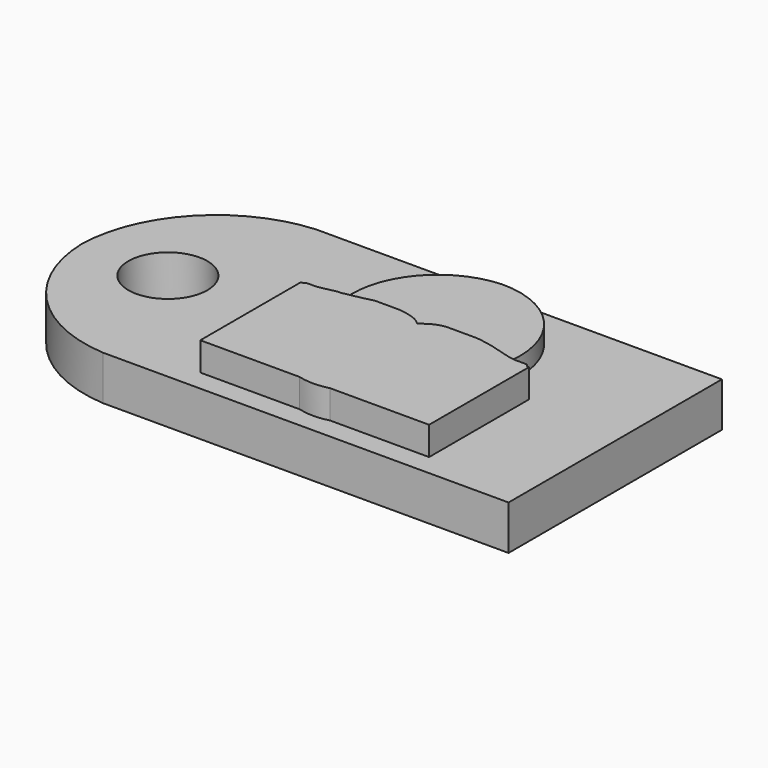
from build123d import *

# Parameters (mm, degrees)
F0_W     = 38.1
F0_H     = 19.05
F1_DEPTH = 3.175
F2_R     = 2.81996
F3_DEPTH = 3.176
F5_DEPTH = 1.27
F6_DEPTH = 2.032


with BuildPart() as f1:
    # F0 (on Top) → F1 (new body)
    with BuildSketch(Plane.XY):
        with Locations((-19.05, 9.525)):
            Rectangle(F0_W, F0_H)
    extrude(amount=F1_DEPTH)

    # F2 (on face) → F3 (cut, through all)
    with BuildSketch(Plane.XY.offset(3.175)):
        with BuildLine():
            ThreePointArc((-38.1, 9.525), (-35.381374, 16.053134), (-28.9762, 19.05))
            Line((-28.9762, 19.05), (-38.1, 19.05))
            Line((-38.1, 19.05), (-38.1, 9.525))
        make_face()
        with BuildLine():
            ThreePointArc((-28.9762, 0), (-35.381374, 2.996866), (-38.1, 9.525))
            Line((-38.1, 9.525), (-38.1, 0))
            Line((-38.1, 0), (-28.9762, 0))
        make_face()
        with Locations((-31.952918, 9.525)):
            Circle(F2_R)
    extrude(amount=-F3_DEPTH, mode=Mode.SUBTRACT)

    # F4 (on face) → F5 (join)
    with BuildSketch(Plane.XY.offset(3.175)):
        with BuildLine():
            ThreePointArc((-15.194452, 18.448619), (-19.817669, 16.003864), (-20.874732, 10.881991))
            Line((-20.874732, 10.881991), (-20.671532, 10.881991))
            Line((-20.671532, 10.881991), (-20.320076, 10.963324))
            Line((-20.320076, 10.963324), (-19.771464, 11.066189))
            Line((-19.771464, 11.066189), (-19.291429, 11.160482))
            Line((-19.291429, 11.160482), (-18.911961, 11.260434))
            Line((-18.911961, 11.260434), (-18.586872, 11.327949))
            Line((-18.586872, 11.327949), (-18.261783, 11.327949))
            Line((-18.261783, 11.327949), (-17.762255, 11.327949))
            Line((-17.762255, 11.327949), (-17.223081, 11.327949))
            Line((-17.223081, 11.327949), (-16.794914, 11.327949))
            Line((-16.794914, 11.327949), (-16.431164, 11.260434))
            Line((-16.431164, 11.260434), (-16.233785, 11.225344))
            Line((-16.233785, 11.225344), (-15.955806, 11.155849))
            Line((-15.955806, 11.155849), (-15.720593, 11.086354))
            Line((-15.720593, 11.086354), (-15.498744, 10.979439))
            Line((-15.498744, 10.979439), (-15.327681, 10.872524))
            Line((-15.327681, 10.872524), (-15.15326, 10.739213))
            Line((-15.15326, 10.739213), (-15.022739, 10.64253))
            Line((-15.022739, 10.64253), (-14.872882, 10.758549))
            Line((-14.872882, 10.758549), (-14.649567, 10.92315))
            Line((-14.649567, 10.92315), (-14.321024, 11.11269))
            Line((-14.321024, 11.11269), (-14.07626, 11.221474))
            Line((-14.07626, 11.221474), (-13.782543, 11.308501))
            Line((-13.782543, 11.308501), (-13.477948, 11.352015))
            Line((-13.477948, 11.352015), (-13.238624, 11.352015))
            Line((-13.238624, 11.352015), (-12.885077, 11.352015))
            Line((-12.885077, 11.352015), (-12.553286, 11.352015))
            Line((-12.553286, 11.352015), (-12.145346, 11.352015))
            Line((-12.145346, 11.352015), (-11.748285, 11.352015))
            Line((-11.748285, 11.352015), (-11.356664, 11.352015))
            Line((-11.356664, 11.352015), (-10.986798, 11.308501))
            Line((-10.986798, 11.308501), (-10.790988, 11.264987))
            Line((-10.790988, 11.264987), (-10.470076, 11.216035))
            Line((-10.470076, 11.216035), (-10.132845, 11.139886))
            Line((-10.132845, 11.139886), (-9.730345, 11.031102))
            Line((-9.730345, 11.031102), (-9.210265, 10.879805))
            ThreePointArc((-9.210265, 10.879805), (-10.357813, 16.122579), (-15.194452, 18.448619))
        make_face()
    extrude(amount=F5_DEPTH)

    # F4 (on face) → F6 (join)
    with BuildSketch(Plane.XY.offset(3.175)):
        with BuildLine():
            Line((-23.068097, 10.490683), (-23.225745, 10.490683))
            Line((-23.225745, 10.490683), (-23.225745, 1.513947))
            Line((-23.225745, 1.513947), (-16.128955, 1.513947))
            ThreePointArc((-16.128955, 1.513947), (-15.046753, 1.367138), (-13.964551, 1.513947))
            Line((-13.964551, 1.513947), (-6.886078, 1.513947))
            Line((-6.886078, 1.513947), (-6.886078, 10.435192))
            Line((-6.886078, 10.435192), (-7.009125, 10.435192))
            Line((-7.009125, 10.435192), (-7.190363, 10.616429))
            Line((-7.190363, 10.616429), (-7.648225, 10.616429))
            Line((-7.648225, 10.616429), (-8.058394, 10.616429))
            Line((-8.058394, 10.616429), (-8.506718, 10.69274))
            Line((-8.506718, 10.69274), (-8.850115, 10.778589))
            Line((-8.850115, 10.778589), (-9.210265, 10.879805))
            Line((-9.210265, 10.879805), (-9.730345, 11.031102))
            Line((-9.730345, 11.031102), (-10.132845, 11.139886))
            Line((-10.132845, 11.139886), (-10.470076, 11.216035))
            Line((-10.470076, 11.216035), (-10.790988, 11.264987))
            Line((-10.790988, 11.264987), (-10.986798, 11.308501))
            Line((-10.986798, 11.308501), (-11.356664, 11.352015))
            Line((-11.356664, 11.352015), (-11.748285, 11.352015))
            Line((-11.748285, 11.352015), (-12.145346, 11.352015))
            Line((-12.145346, 11.352015), (-12.553286, 11.352015))
            Line((-12.553286, 11.352015), (-12.885077, 11.352015))
            Line((-12.885077, 11.352015), (-13.238624, 11.352015))
            Line((-13.238624, 11.352015), (-13.477948, 11.352015))
            Line((-13.477948, 11.352015), (-13.782543, 11.308501))
            Line((-13.782543, 11.308501), (-14.07626, 11.221474))
            Line((-14.07626, 11.221474), (-14.321024, 11.11269))
            Line((-14.321024, 11.11269), (-14.649567, 10.92315))
            Line((-14.649567, 10.92315), (-14.872882, 10.758549))
            Line((-14.872882, 10.758549), (-15.022739, 10.64253))
            Line((-15.022739, 10.64253), (-15.15326, 10.739213))
            Line((-15.15326, 10.739213), (-15.327681, 10.872524))
            Line((-15.327681, 10.872524), (-15.498744, 10.979439))
            Line((-15.498744, 10.979439), (-15.720593, 11.086354))
            Line((-15.720593, 11.086354), (-15.955806, 11.155849))
            Line((-15.955806, 11.155849), (-16.233785, 11.225344))
            Line((-16.233785, 11.225344), (-16.431164, 11.260434))
            Line((-16.431164, 11.260434), (-16.794914, 11.327949))
            Line((-16.794914, 11.327949), (-17.223081, 11.327949))
            Line((-17.223081, 11.327949), (-17.762255, 11.327949))
            Line((-17.762255, 11.327949), (-18.261783, 11.327949))
            Line((-18.261783, 11.327949), (-18.586872, 11.327949))
            Line((-18.586872, 11.327949), (-18.911961, 11.260434))
            Line((-18.911961, 11.260434), (-19.291429, 11.160482))
            Line((-19.291429, 11.160482), (-19.771464, 11.066189))
            Line((-19.771464, 11.066189), (-20.320076, 10.963324))
            Line((-20.320076, 10.963324), (-20.671532, 10.881991))
            Line((-20.671532, 10.881991), (-20.874732, 10.881991))
            Line((-20.874732, 10.881991), (-21.348417, 10.795149))
            Line((-21.348417, 10.795149), (-21.751048, 10.700412))
            Line((-21.751048, 10.700412), (-22.276284, 10.614889))
            Line((-22.276284, 10.614889), (-22.866262, 10.614889))
            Line((-22.866262, 10.614889), (-23.068097, 10.490683))
        make_face()
    extrude(amount=F6_DEPTH)


solid = f1.part
